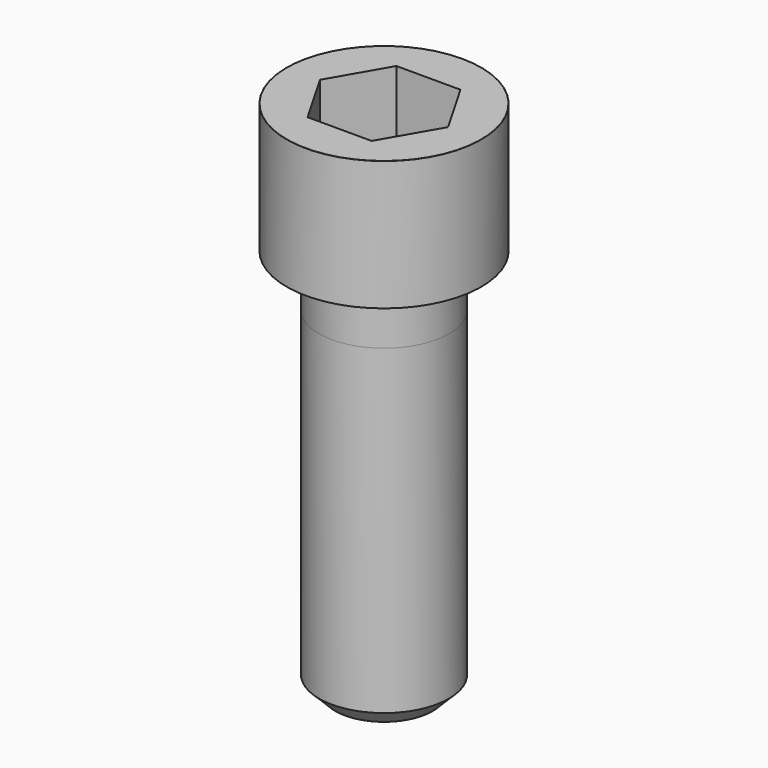
from build123d import *

# Parameters (mm, degrees)
POCKET_DEPTH = 17.1


with BuildPart() as part:
    # Sketch → Revolve (revolve)
    with BuildSketch(Plane.YZ):
        with BuildLine():
            Line((9.999, 0), (15, 0))
            Line((15, 0), (15, 19.97229))
            ThreePointArc((15, 19.97229), (14.991884, 19.991884), (14.97229, 20))
            Line((14.97229, 20), (0, 20))
            Line((0, -60), (0, 20))
            Line((7.5, -60), (0, -60))
            Line((10, -57.5), (7.5, -60))
            Line((10, -8), (10, -57.5))
            Line((9.999, 0), (10, -8))
        make_face()
    revolve(axis=Axis((0, 0, 0), (0, 0, 1)))

    # Sketch001 → Pocket (cut)
    with BuildSketch(Plane.XY.offset(20)):
        Polygon((9.87269, 0), (4.936345, 8.55), (-4.936345, 8.55), (-9.87269, 0), (-4.936345, -8.55), (4.936345, -8.55), align=None)
    extrude(amount=-POCKET_DEPTH, mode=Mode.SUBTRACT)


solid = part.part
